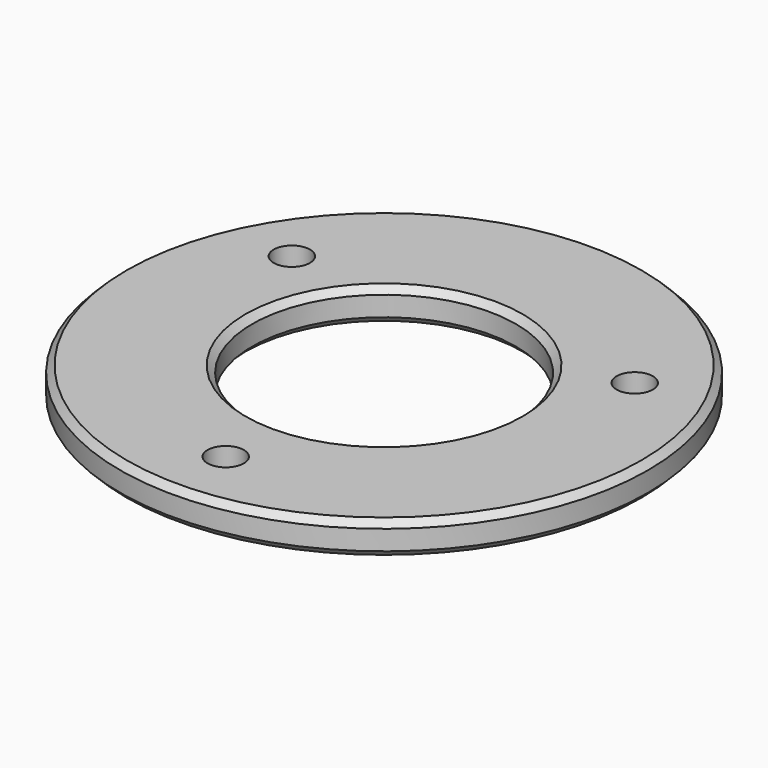
from build123d import *

# Parameters (mm, degrees)
F0_R     = 40
F1_DEPTH = 5
F3_D     = 5.5
F4_R     = 20
F5_DEPTH = 5.001
F6_SIZE  = 1


with BuildPart() as f1:
    # F0 (on Top) → F1 (new body)
    with BuildSketch(Plane.XY):
        Circle(F0_R)
    extrude(amount=F1_DEPTH)

    # F3 (through all)
    with Locations(Plane(origin=(0, 0, 0), x_dir=(1, 0, 0), z_dir=(0, 0, -1))):
        with Locations((0, 30), (25.980762, -15), (-25.980762, -15)):
            Hole(F3_D / 2)

    # F4 (on face) → F5 (cut, through all)
    with BuildSketch(Plane.XY.offset(5)):
        Circle(F4_R)
    extrude(amount=-F5_DEPTH, mode=Mode.SUBTRACT)

    # F6
    f6_edges = [f1.edges().sort_by_distance(p)[0] for p in [
        (-40, 0, 5),
        (-40, 0, 0),
        (-20, 0, 5),
        (-20, 0, 0),
    ]]
    chamfer(f6_edges, length=F6_SIZE)


solid = f1.part
